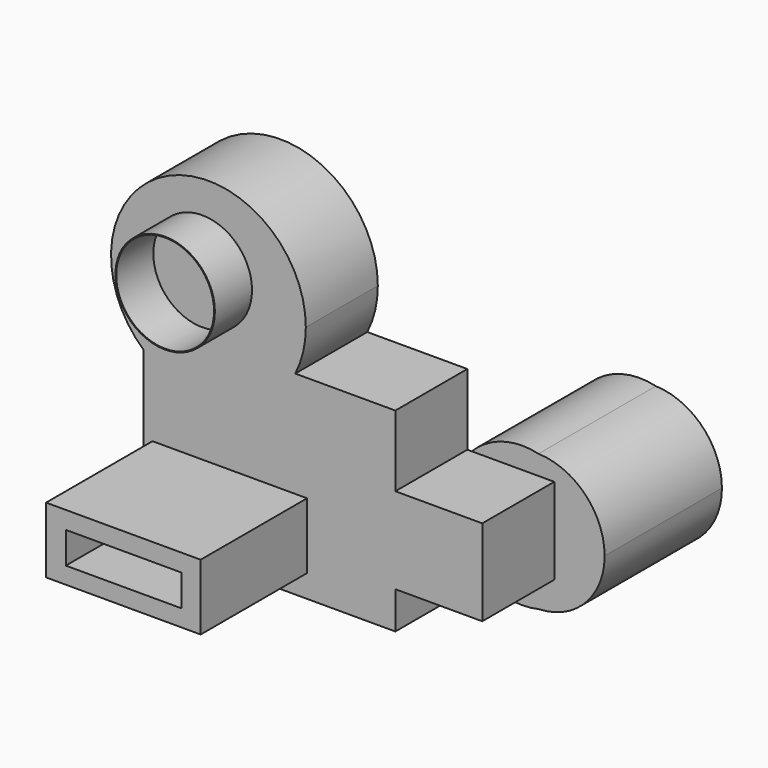
from build123d import *

# Parameters (mm, degrees)
F0_W     = 107.0926934481
F0_H     = 38.6895574629
F0_W_2   = 38.9990732074
F1_DEPTH = 40.386
F2_R     = 22.3315998305
F2_R_2   = 21.9640238971
F3_DEPTH = 61.214
F4_W     = 69.3601816893
F4_H     = 29.5533258468
F4_W_2   = 51.8825063482
F4_H_2   = 14.1199231148
F5_DEPTH = 100.076
F7_DEPTH = 65.786


with BuildPart() as f1:
    # F0 (on Front) → F1 (new body)
    with BuildSketch(Plane.XZ):
        with BuildLine():
            ThreePointArc((-5.3047918225, 21.9756681472), (-1.760973589, 31.599753627), (-0.5576112402, 41.784722358))
            ThreePointArc((-0.5576112402, 41.784722358), (-62.1276824989, 81.6689250655), (-73.3553990722, 9.1736722487))
            Line((-73.3553990722, 9.1736722487), (-73.3553990722, 21.9756681472))
            Line((-73.3553990722, 21.9756681472), (-5.3047918225, 21.9756681472))
        make_face()
        with BuildLine():
            Line((-73.3553990722, 21.9756681472), (-73.3553990722, 9.1736722487))
            ThreePointArc((-73.3553990722, 9.1736722487), (-36.1809302997, -1.1651102493), (-5.3047918225, 21.9756681472))
            Line((-5.3047918225, 21.9756681472), (-73.3553990722, 21.9756681472))
        make_face()
        with BuildLine():
            ThreePointArc((-5.3047918225, 21.9756681472), (-36.1809302997, -1.1651102493), (-73.3553990722, 9.1736722487))
            Line((-73.3553990722, 9.1736722487), (-73.3553990722, -65.3079673648))
            Line((-73.3553990722, -65.3079673648), (39.6181046963, -65.3079673648))
            Line((39.6181046963, -65.3079673648), (39.6181046963, -48.594083637))
            Line((39.6181046963, -48.594083637), (-67.4745887518, -48.594083637))
            Line((-67.4745887518, -48.594083637), (-67.4745887518, -9.9045261741))
            Line((-67.4745887518, -9.9045261741), (39.6181046963, -9.9045261741))
            Line((39.6181046963, -9.9045261741), (39.6181046963, 21.9756681472))
            Line((39.6181046963, 21.9756681472), (-5.3047918225, 21.9756681472))
        make_face()
        with Locations((-13.9282420278, -29.2493049055)):
            Rectangle(F0_W, F0_H)
        with Locations((59.1176413, -29.2493049055)):
            Rectangle(F0_W_2, F0_H)
    extrude(amount=F1_DEPTH)

    # F2 (on Front) → F3 (join)
    with BuildSketch(Plane.XZ):
        with Locations((-47.0310002565, 48.6432611942)):
            Circle(F2_R)
        with Locations((-47.0310002565, 48.6432611942)):
            Circle(F2_R_2, mode=Mode.SUBTRACT)
    extrude(amount=F3_DEPTH)

    # F4 (on Front) → F5 (join)
    with BuildSketch(Plane.XZ):
        with Locations((-34.6800908446, -40.3450904414)):
            Rectangle(F4_W, F4_H)
        with Locations((-34.5529275946, -40.5092760921)):
            Rectangle(F4_W_2, F4_H_2, mode=Mode.SUBTRACT)
    extrude(amount=F5_DEPTH)

    # F6 (on Front) → F7 (join)
    with BuildSketch(Plane.XZ):
        with BuildLine():
            ThreePointArc((71.5539108322, -62.4836369352), (89.0145397665, -51.3617017106), (95.8118023382, -31.8074636161))
            ThreePointArc((95.8118023382, -31.8074636161), (89.0145397665, -12.2532255217), (71.5539108322, -1.1312902971))
            ThreePointArc((71.5539108322, -1.1312902971), (39.8321670237, -31.8074636161), (71.5539108322, -62.4836369352))
        make_face()
        with BuildLine():
            ThreePointArc((71.5539108322, -1.1312902971), (89.0145397665, -12.2532255217), (95.8118023382, -31.8074636161))
            ThreePointArc((95.8118023382, -31.8074636161), (89.0145397665, -51.3617017106), (71.5539108322, -62.4836369352))
            ThreePointArc((71.5539108322, -62.4836369352), (92.5896637981, -53.1443080624), (101.2189763841, -31.8074636161))
            ThreePointArc((101.2189763841, -31.8074636161), (92.5896637981, -10.4706191698), (71.5539108322, -1.1312902971))
        make_face()
        with BuildLine():
            ThreePointArc((71.5539108322, -62.4836369352), (39.8321670237, -31.8074636161), (71.5539108322, -1.1312902971))
            ThreePointArc((71.5539108322, -1.1312902971), (32.7612725987, -31.8074636161), (71.5539108322, -62.4836369352))
        make_face()
    extrude(amount=-F7_DEPTH)


solid = f1.part
